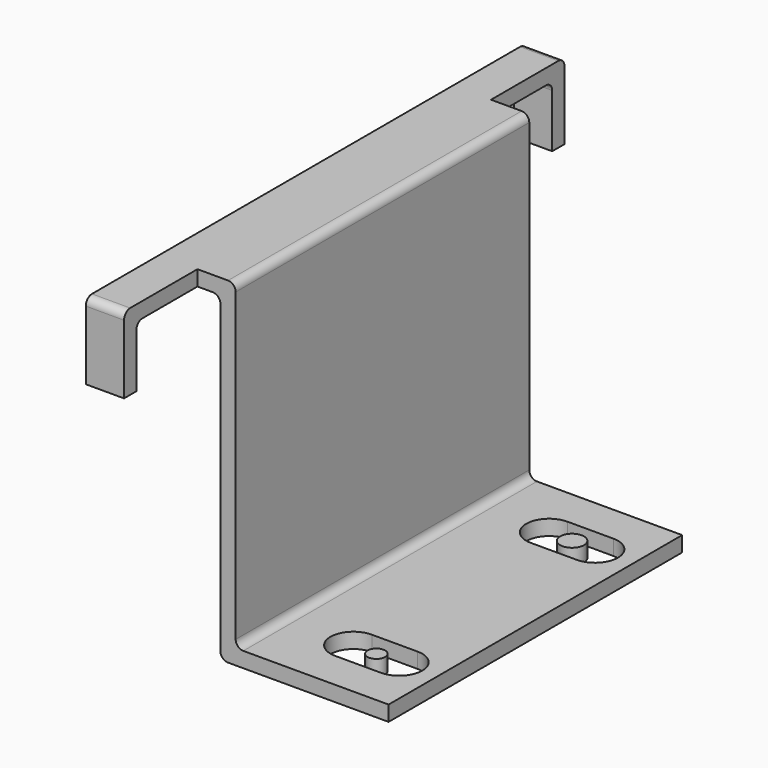
from build123d import *

# Parameters (mm, degrees)
F1_DEPTH = 24
F2_W     = 2.5
F2_H     = 6
F3_DEPTH = 1
F4_W     = 2.5
F4_H     = 1
F5_DEPTH = 4
F6_R     = 0.5
F7_R     = 0.577109
F7_R_2   = 0.779813
F8_DEPTH = 2


with BuildPart() as f1:
    # F0 (on Front) → F1 (new body)
    with BuildSketch(Plane.XZ):
        Polygon((57.043818, 40.345872), (47.043818, 40.345872), (47.043818, 61.345872), (42.043818, 61.345872), (42.043818, 60.345872), (46.043818, 60.345872), (46.043818, 39.345872), (57.043818, 39.345872), align=None)
    extrude(amount=F1_DEPTH)

    # F2 (on face) → F3 (join)
    with BuildSketch(Plane.XY.offset(61.345872)):
        with Locations((43.293818, -27)):
            Rectangle(F2_W, F2_H)
        with Locations((43.293818, 3)):
            Rectangle(F2_W, F2_H)
    extrude(amount=-F3_DEPTH)

    # F4 (on face) → F5 (join)
    with BuildSketch(Plane(origin=(0, 0, 60.345872), x_dir=(1, 0, 0), z_dir=(0, 0, -1))):
        with Locations((43.293818, -5.5)):
            Rectangle(F4_W, F4_H)
        with Locations((43.293818, 29.5)):
            Rectangle(F4_W, F4_H)
    extrude(amount=F5_DEPTH)

    # F6
    f6_edges = [f1.edges().sort_by_distance(p)[0] for p in [
        (47.043818, -12, 40.345872),
        (46.043818, -12, 39.345872),
        (47.043818, -12, 61.345872),
        (46.043818, -12, 60.345872),
        (43.293818, 5, 60.345872),
        (43.293818, -29, 60.345872),
        (43.293818, 6, 61.345872),
        (43.293818, -30, 61.345872),
    ]]
    fillet(f6_edges, radius=F6_R)

    # F7 (on face) → F8 (cut)
    with BuildSketch(Plane.XY.offset(40.345872)):
        with BuildLine():
            ThreePointArc((54.543818, -21.5), (56.043818, -20), (54.543818, -18.5))
            Line((54.543818, -18.5), (51.543818, -18.5))
            ThreePointArc((51.543818, -18.5), (50.043818, -20), (51.543818, -21.5))
            Line((51.543818, -21.5), (54.543818, -21.5))
        make_face()
        with Locations((53.043818, -20)):
            Circle(F7_R, mode=Mode.SUBTRACT)
        with BuildLine():
            ThreePointArc((54.543818, -5.5), (56.043818, -4), (54.543818, -2.5))
            Line((54.543818, -2.5), (51.543818, -2.5))
            ThreePointArc((51.543818, -2.5), (50.043818, -4), (51.543818, -5.5))
            Line((51.543818, -5.5), (54.543818, -5.5))
        make_face()
        with Locations((53.043818, -4)):
            Circle(F7_R_2, mode=Mode.SUBTRACT)
    extrude(amount=-F8_DEPTH, mode=Mode.SUBTRACT)


solid = f1.part
